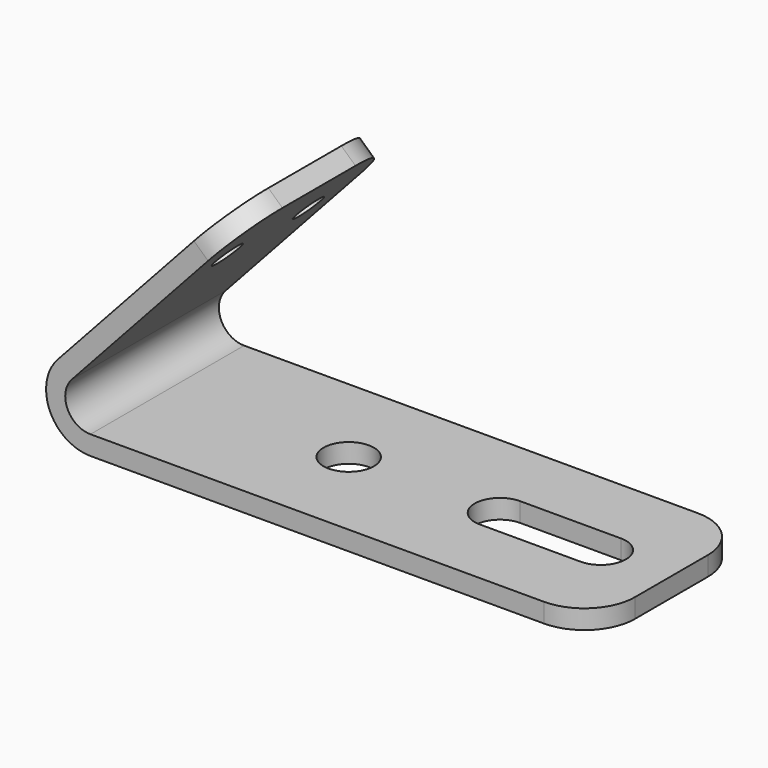
from build123d import *

# Parameters (mm, degrees)
F0_W     = 50
F0_H     = 1.9
F1_DEPTH = 1.9
F2_DEPTH = 9.525
F3_R     = 2.5
F4_DEPTH = 1.901
F5_R     = 1.5
F6_DEPTH = 25
F7_R     = 5


with BuildPart() as f1:
    # F0 (on Front) → F1 (new body)
    with BuildSketch(Plane.XZ):
        with Locations((9.8579123784, 14.0109292623)):
            Rectangle(F0_W, F0_H)
        with BuildLine():
            ThreePointArc((-18.3860669017, 20.4335709209), (-19.169470351, 15.6888716021), (-15.1420876216, 13.0609292623))
            Line((-15.1420876216, 13.0609292623), (-15.1420876216, 14.9609292623))
            ThreePointArc((-15.1420876216, 14.9609292623), (-17.4303732633, 16.454078319), (-16.9852576671, 19.1499302047))
            Line((-16.9852576671, 19.1499302047), (-18.3860669017, 20.4335709209))
        make_face()
        Polygon((-1.496057478, 38.865271376), (-18.3860669017, 20.4335709209), (-16.9852576671, 19.1499302047), (-0.0952482434, 37.5816306598), align=None)
    extrude(amount=F1_DEPTH)

    # F2 (add, symmetric): a face of the model
    f2_faces = [f1.faces().sort_by_distance(p)[0] for p in [
        (34.2558140416, -1.9, 14.0109292623),
    ]]
    extrude(f2_faces, amount=F2_DEPTH, both=True)

    # F3 (on face) → F4 (cut, through all)
    with BuildSketch(Plane.XY.offset(14.9609292623)):
        with BuildLine():
            Line((27.8579123784, 0.6), (17.8579123784, 0.6))
            ThreePointArc((17.8579123784, 0.6), (15.3579123784, -1.9), (17.8579123784, -4.4))
            Line((17.8579123784, -4.4), (27.8579123784, -4.4))
            ThreePointArc((27.8579123784, -4.4), (30.3579123784, -1.9), (27.8579123784, 0.6))
        make_face()
        with Locations((2.8579123784, -1.9)):
            Circle(F3_R)
    extrude(amount=-F4_DEPTH, mode=Mode.SUBTRACT)

    # F5 (on face) → F6 (cut)
    with BuildSketch(Plane(origin=(-20.1719385395, 0, 18.4846879894), x_dir=(0, -1, 0), z_dir=(-0.7372680182, 0, 0.6756003769))):
        with Locations((6.925, 20.1433846083)):
            Circle(F5_R)
        with Locations((-3.125, 20.1433846083)):
            Circle(F5_R)
    extrude(amount=-F6_DEPTH, mode=Mode.SUBTRACT)

    # F7
    f7_edges = [f1.edges().sort_by_distance(p)[0] for p in [
        (-0.795653, -11.425, 38.223451),
        (-0.795653, 7.625, 38.223451),
        (34.857912, 7.625, 14.010929),
        (34.857912, -11.425, 14.010929),
    ]]
    fillet(f7_edges, radius=F7_R)


solid = f1.part
